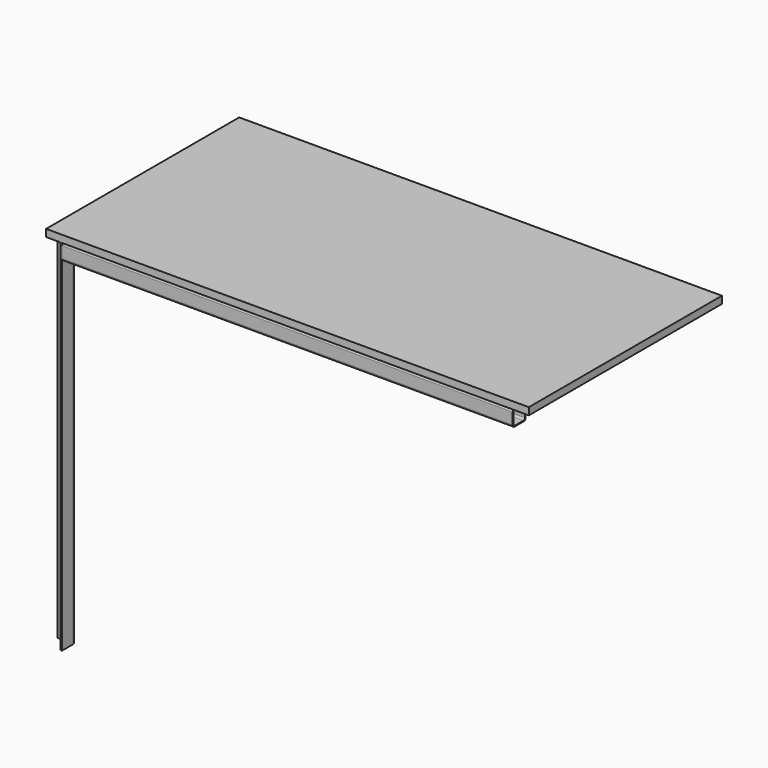
from build123d import *

# Parameters (mm, degrees)
F2_W     = 1200
F2_H     = 600
F3_DEPTH = 18
F5_DEPTH = 892
F6_W     = 40
F6_H     = 40
F7_DEPTH = 1120
F8_R     = 6
F9_T     = -2


with BuildPart() as f3:
    # F2 (on offset) → F3 (new body)
    with BuildSketch(Plane.XY.offset(1010)):
        with Locations((600, 300)):
            Rectangle(F2_W, F2_H)
    extrude(amount=-F3_DEPTH)


with BuildPart() as f5:
    # F4 (on offset) → F5 (new body, through all)
    with BuildSketch(Plane.XY.offset(100)):
        with BuildLine():
            Line((34, 40), (0, 40))
            Line((0, 40), (0, 36))
            Line((0, 36), (34, 36))
            ThreePointArc((34, 36), (35.4142135624, 35.4142135624), (36, 34))
            Line((36, 34), (36, 0))
            Line((36, 0), (40, 0))
            Line((40, 0), (40, 34))
            ThreePointArc((40, 34), (38.2426406871, 38.2426406871), (34, 40))
        make_face()
    extrude(amount=F5_DEPTH)


with BuildPart() as f7:
    # F6 (on face) → F7 (new body)
    with BuildSketch(Plane.YZ.offset(40)):
        with Locations((20, 972)):
            Rectangle(F6_W, F6_H)
    extrude(amount=F7_DEPTH)

    # F8
    f8_edges = [f7.edges().sort_by_distance(p)[0] for p in [
        (600, 40, 992),
        (600, 40, 952),
        (600, 0, 992),
        (600, 0, 952),
    ]]
    fillet(f8_edges, radius=F8_R)

    # F9
    f9_openings = [f7.faces().sort_by_distance(p)[0] for p in [
        (1160, 20, 972),
        (40, 20, 972),
    ]]
    offset(amount=F9_T, openings=f9_openings)


solid = Compound([f3.part, f5.part, f7.part])
